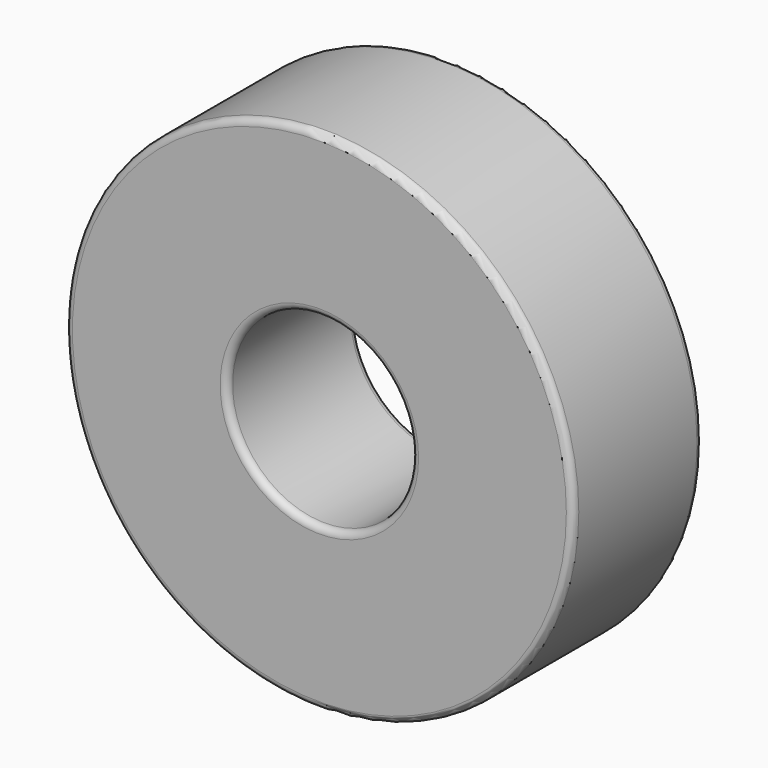
from build123d import *

# Parameters (mm, degrees)
F0_R     = 11
F1_DEPTH = 7
F2_R     = 4
F3_DEPTH = 25
F4_R     = 0.3


with BuildPart() as f1:
    # F0 (on Front) → F1 (new body)
    with BuildSketch(Plane.XZ):
        Circle(F0_R)
    extrude(amount=F1_DEPTH)

    # F2 (on face) → F3 (cut)
    with BuildSketch(Plane.XZ.offset(7)):
        Circle(F2_R)
    extrude(amount=-F3_DEPTH, mode=Mode.SUBTRACT)

    # F4
    f4_edges = [f1.edges().sort_by_distance(p)[0] for p in [
        (-11, -7, 0),
        (-11, 0, 0),
        (-4, 0, 0),
        (-4, -7, 0),
    ]]
    fillet(f4_edges, radius=F4_R)


solid = f1.part
